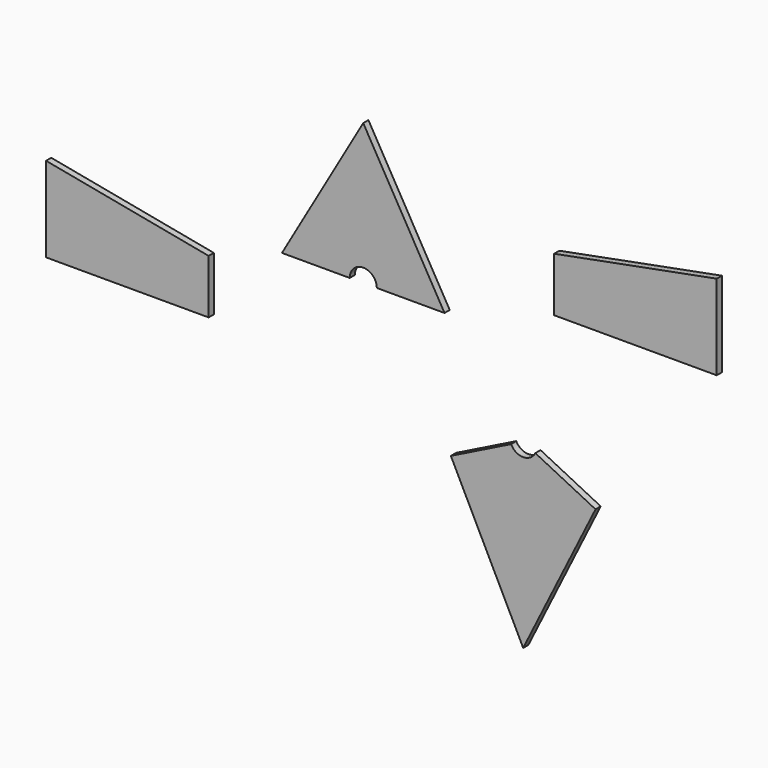
from build123d import *

# Parameters (mm, degrees)
F1_DEPTH = 12


with BuildPart() as f1:
    # F0 (on Front) → F1 (new body)
    with BuildSketch(Plane.XZ):
        with BuildLine():
            Line((214.8489536166, -390.4653333906), (348.3538925648, -659.1220498085))
            Line((348.3538925648, -659.1220498085), (481.8588315129, -390.4653333906))
            Line((481.8588315129, -390.4653333906), (370.7419522663, -335.2474613875))
            ThreePointArc((370.7419522663, -335.2474613875), (348.3538925648, -349.1220498085), (325.9658328633, -335.2474613875))
            Line((325.9658328633, -335.2474613875), (214.8489536166, -390.4653333906))
        make_face()
    extrude(amount=F1_DEPTH)


with BuildPart() as f1b:
    # F0 (on Front) → F1, piece 2 (new body)
    with BuildSketch(Plane.XZ):
        with BuildLine():
            ThreePointArc((28.1680982371, -162.1252919122), (53.1680982371, -137.1252919122), (78.1680982371, -162.1252919122))
            Line((78.1680982371, -162.1252919122), (203.1680982371, -162.1252919122))
            Line((203.1680982371, -162.1252919122), (53.1680982371, 97.6823292231))
            Line((53.1680982371, 97.6823292231), (-96.8319017629, -162.1252919122))
            Line((-96.8319017629, -162.1252919122), (28.1680982371, -162.1252919122))
        make_face()
    extrude(amount=F1_DEPTH)


with BuildPart() as f1c:
    # F0 (on Front) → F1, piece 3 (new body)
    with BuildSketch(Plane.XZ):
        Polygon((705.5297672749, 57), (405.5297672749, 0), (405.5297672749, -100), (705.5297672749, -100), align=None)
    extrude(amount=F1_DEPTH)


with BuildPart() as f1d:
    # F0 (on Front) → F1, piece 4 (new body)
    with BuildSketch(Plane.XZ):
        Polygon((-532.1827530861, -153.9349433431), (-532.1827530861, -310.9349433431), (-232.1827530861, -310.9349433431), (-232.1827530861, -210.9349433431), align=None)
    extrude(amount=F1_DEPTH)


solid = Compound([f1.part, f1b.part, f1c.part, f1d.part])
